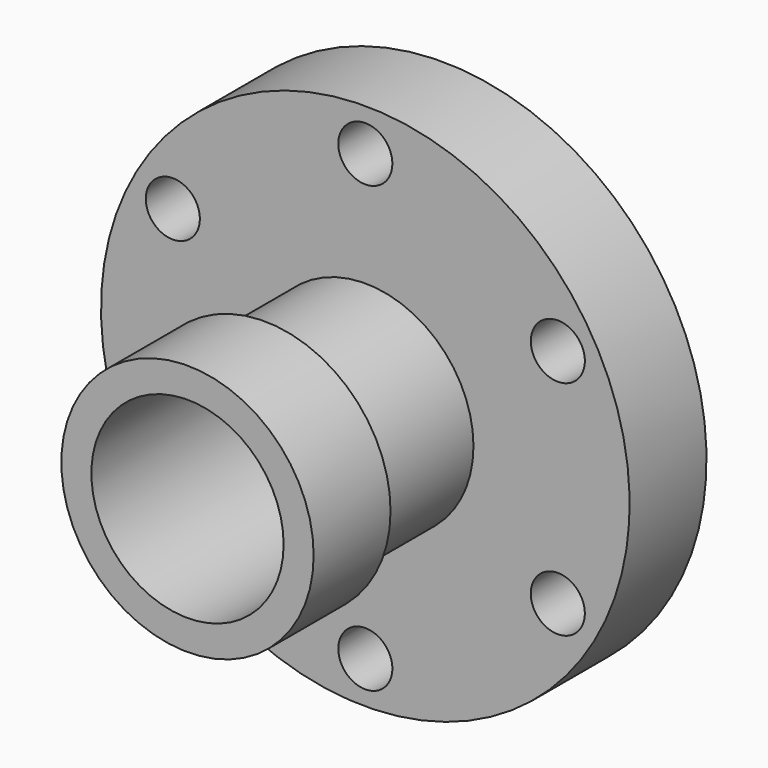
from build123d import *

# Parameters (mm, degrees)
SKETCH039_R            = 14.2875
SKETCH039_R_2          = 12.7
PAD036_DEPTH           = 29.21
SKETCH037_R            = 16.66875
SKETCH037_R_2          = 12.7
PAD041_DEPTH           = 12.7
SKETCH041_R            = 3.571875
PAD038_DEPTH           = 13
SKETCH040_R            = 34.925
SKETCH040_R_2          = 14.2875
PAD037_DEPTH           = 12.7
CUT028_PLACEMENT_ANGLE = 60
CUT027_PLACEMENT_ANGLE = 60
CUT031_PLACEMENT_ANGLE = 60
CUT032_PLACEMENT_ANGLE = 60
CUT029_PLACEMENT_ANGLE = 60


with BuildPart() as body036:
    # Sketch039 → Pad036 (new body)
    with BuildSketch(Plane.XZ):
        Circle(SKETCH039_R)
        Circle(SKETCH039_R_2, mode=Mode.SUBTRACT)
    extrude(amount=PAD036_DEPTH)


with BuildPart() as body036_1:
    # Body036 placement: moved
    add(body036.part.moved(Location((0, -0.16, 0))))


with BuildPart() as body037:
    # Sketch037 → Pad041 (new body)
    with BuildSketch(Plane.XZ):
        Circle(SKETCH037_R)
        Circle(SKETCH037_R_2, mode=Mode.SUBTRACT)
    extrude(amount=PAD041_DEPTH)


with BuildPart() as body037_1:
    # Body037 placement: moved
    add(body037.part.moved(Location((0, -29.37, 0))))


with BuildPart() as body040:
    # Sketch041 → Pad038 (new body)
    with BuildSketch(Plane.XZ):
        with Locations((0, 29.36875)):
            Circle(SKETCH041_R)
    extrude(amount=PAD038_DEPTH)


with BuildPart() as fusion002:
    # Sketch040 → Pad037 (new body)
    with BuildSketch(Plane.XZ):
        Circle(SKETCH040_R)
        Circle(SKETCH040_R_2, mode=Mode.SUBTRACT)
    extrude(amount=PAD037_DEPTH)

    # Cut028: cut Body040
    add(body040.part, mode=Mode.SUBTRACT)


with BuildPart() as fusion002_1:
    # Cut028 placement: moved
    add(fusion002.part.rotate(Axis((0, 0, 0), (0, 1, 0)), CUT028_PLACEMENT_ANGLE))

    # Cut027: cut Body040
    add(body040.part, mode=Mode.SUBTRACT)


with BuildPart() as fusion002_2:
    # Cut027 placement: moved
    add(fusion002_1.part.rotate(Axis((0, 0, 0), (0, 1, 0)), CUT027_PLACEMENT_ANGLE))

    # Cut031: cut Body040
    add(body040.part, mode=Mode.SUBTRACT)


with BuildPart() as fusion002_3:
    # Cut031 placement: moved
    add(fusion002_2.part.rotate(Axis((0, 0, 0), (0, 1, 0)), CUT031_PLACEMENT_ANGLE))

    # Cut032: cut Body040
    add(body040.part, mode=Mode.SUBTRACT)


with BuildPart() as fusion002_4:
    # Cut032 placement: moved
    add(fusion002_3.part.rotate(Axis((0, 0, 0), (0, 1, 0)), CUT032_PLACEMENT_ANGLE))

    # Cut029: cut Body040
    add(body040.part, mode=Mode.SUBTRACT)


with BuildPart() as fusion002_5:
    # Cut029 placement: moved
    add(fusion002_4.part.rotate(Axis((0, 0, 0), (0, 1, 0)), CUT029_PLACEMENT_ANGLE))

    # Cut030: cut Body040
    add(body040.part, mode=Mode.SUBTRACT)

    # Fusion002: union Body036, Body037
    add(body036_1.part)
    add(body037_1.part)


solid = fusion002_5.part
